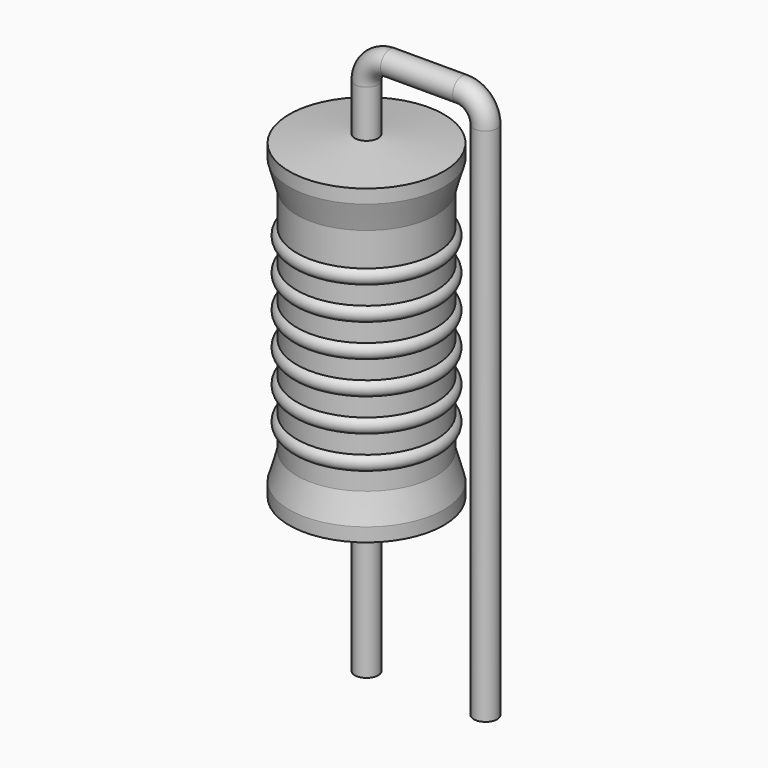
from build123d import *

# Parameters (mm, degrees)
SKETCH_R = 0.25


with BuildPart() as sweep_body:
    # Sweep: sweep along a path in Sketch001
    with BuildLine(Plane.XZ) as sweep_path:
        Line((0, -3), (0, 8.1))
        ThreePointArc((0, 8.1), (0.146445, 8.453551), (0.499995, 8.6))
        Line((0.499995, 8.6), (2.04, 8.6))
        ThreePointArc((2.04, 8.6), (2.393553, 8.453553), (2.54, 8.1))
        Line((2.54, 8.1), (2.54, -3))
    # Sketch → Sweep (sweep)
    with BuildSketch(Plane.XY.offset(-2)):
        Circle(SKETCH_R)
    sweep(path=sweep_path.line)


with BuildPart() as revolution:
    # Sketch002 → Revolution (revolve)
    with BuildSketch(Plane.XZ):
        Polygon((0, 0.1), (0, 7.1), (0.1875, 7.1), (1.65, 6.925), (1.65, 6.6325), (1.485, 6.05), (1.485, 1.15), (1.65, 0.5675), (1.65, 0.275), (0.1875, 0.1), align=None)
    revolve(axis=Axis((0, 0, 0), (0, 0, 1)))


with BuildPart() as revolution001:
    # Sketch003 → Revolution001 (revolve)
    with BuildSketch(Plane.XZ):
        with BuildLine():
            Line((1.32, 5.72), (1.32, 1.15))
            Line((1.32, 1.15), (1.419, 1.15))
            Line((1.419, 1.15), (1.419, 1.52))
            ThreePointArc((1.419, 1.52), (1.584, 1.685), (1.419, 1.85))
            Line((1.419, 1.85), (1.419, 2.22))
            ThreePointArc((1.419, 2.22), (1.584, 2.385), (1.419, 2.55))
            Line((1.419, 2.55), (1.419, 2.92))
            ThreePointArc((1.419, 2.92), (1.584, 3.085), (1.419, 3.25))
            Line((1.419, 3.25), (1.419, 3.62))
            ThreePointArc((1.419, 3.62), (1.584, 3.785), (1.419, 3.95))
            Line((1.419, 3.95), (1.419, 4.32))
            ThreePointArc((1.419, 4.32), (1.584, 4.485), (1.419, 4.65))
            Line((1.419, 4.65), (1.419, 5.02))
            ThreePointArc((1.419, 5.02), (1.584, 5.185), (1.419, 5.35))
            Line((1.419, 5.72), (1.419, 5.35))
            Line((1.32, 5.72), (1.419, 5.72))
        make_face()
    revolve(axis=Axis((0, 0, 0), (0, 0, 1)))


solid = Compound([sweep_body.part, revolution.part, revolution001.part])
